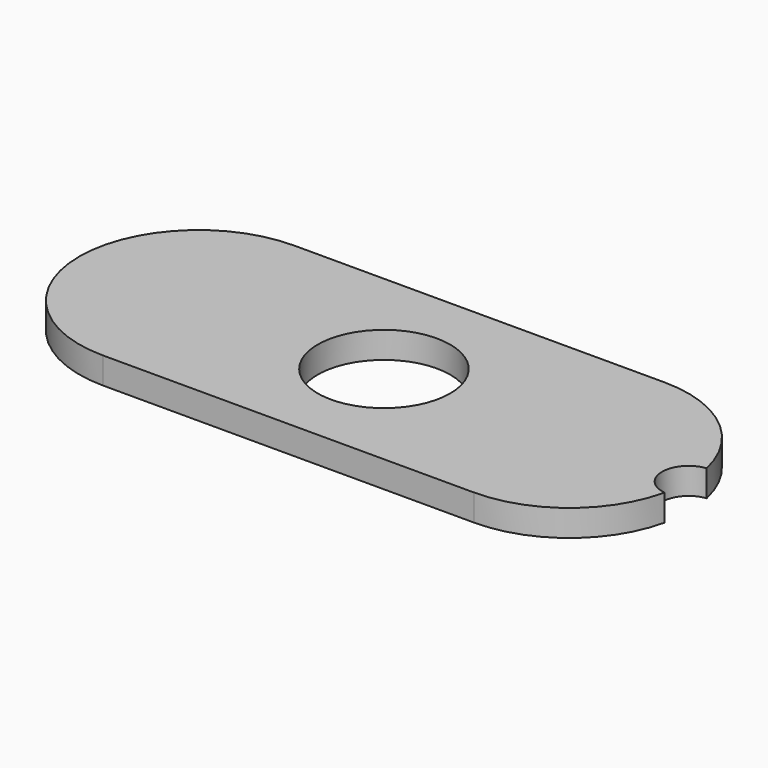
from build123d import *

# Parameters (mm, degrees)
F0_R     = 6.25
F1_DEPTH = 2.5


with BuildPart() as f1:
    # F0 (on Top) → F1 (new body)
    with BuildSketch(Plane.XY):
        with BuildLine():
            ThreePointArc((-28.549118, -16.640839), (-39.799118, -27.890839), (-28.549118, -39.140839))
            Line((-28.549118, -39.140839), (6.450882, -39.140839))
            ThreePointArc((6.450882, -39.140839), (13.472693, -36.680417), (17.423104, -30.375359))
            ThreePointArc((17.423104, -30.375359), (15.200882, -27.890839), (17.423104, -25.406319))
            ThreePointArc((17.423104, -25.406319), (13.472693, -19.101262), (6.450882, -16.640839))
            Line((6.450882, -16.640839), (-28.549118, -16.640839))
        make_face()
        with Locations((-11.049118, -27.890839)):
            Circle(F0_R, mode=Mode.SUBTRACT)
    extrude(amount=F1_DEPTH)


solid = f1.part
